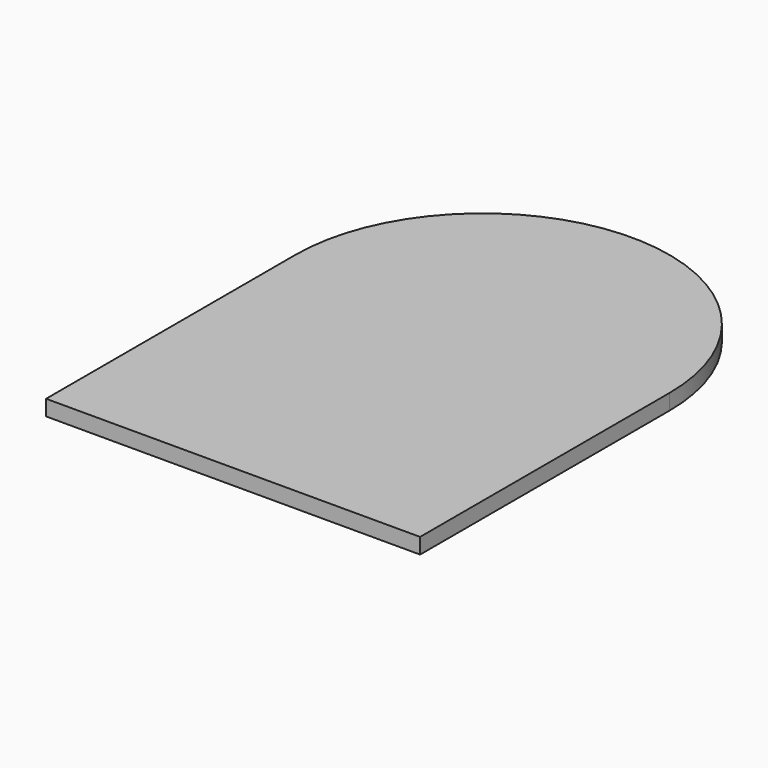
from build123d import *

# Parameters (mm, degrees)
F1_DEPTH = 3.175
F2_DEPTH = 3.175


with BuildPart() as f1:
    # F0 (on Top) → F1 (new body)
    with BuildSketch(Plane.XY):
        with BuildLine():
            Line((34.925, -60.325), (34.925, 0))
            ThreePointArc((34.925, 0), (0, 34.925), (-34.925, 0))
            Line((-34.925, 0), (-34.925, -60.325))
            Line((-34.925, -60.325), (34.925, -60.325))
        make_face()
    extrude(amount=F1_DEPTH)

    # F0 (on Top) → F2 (join)
    with BuildSketch(Plane.XY):
        with BuildLine():
            Line((38.1, -63.5), (38.1, 0))
            ThreePointArc((38.1, 0), (0, 38.1), (-38.1, 0))
            Line((-38.1, 0), (-38.1, -63.5))
            Line((-38.1, -63.5), (38.1, -63.5))
        make_face()
        with BuildLine():
            ThreePointArc((-34.925, 0), (0, 34.925), (34.925, 0))
            Line((34.925, 0), (34.925, -60.325))
            Line((34.925, -60.325), (-34.925, -60.325))
            Line((-34.925, -60.325), (-34.925, 0))
        make_face(mode=Mode.SUBTRACT)
    extrude(amount=F2_DEPTH)


solid = f1.part
